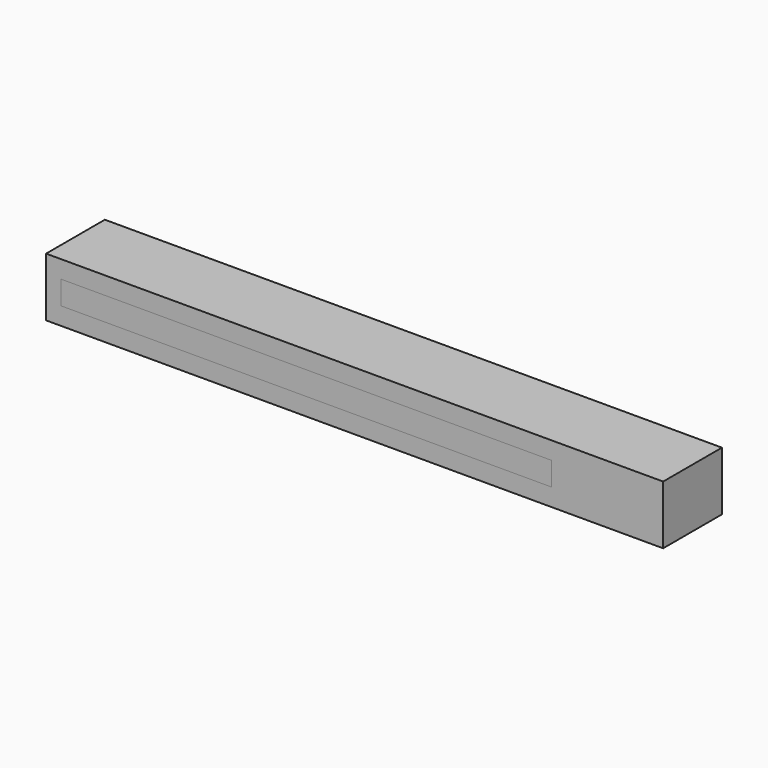
from build123d import *

# Parameters (mm, degrees)
F0_W     = 167
F0_H     = 8
F1_DEPTH = 25
F0_W_2   = 210
F0_H_2   = 20
F2_DEPTH = 25


with BuildPart() as f1:
    # F0 (on Front) → F1 (new body)
    with BuildSketch(Plane.XZ):
        with Locations((88.5, 10)):
            Rectangle(F0_W, F0_H)
    extrude(amount=F1_DEPTH)


with BuildPart() as f2:
    # F0 (on Front) → F2 (new body)
    with BuildSketch(Plane.XZ):
        with Locations((105, 10)):
            Rectangle(F0_W_2, F0_H_2)
        with Locations((88.5, 10)):
            Rectangle(F0_W, F0_H, mode=Mode.SUBTRACT)
    extrude(amount=F2_DEPTH)


solid = Compound([f1.part, f2.part])
